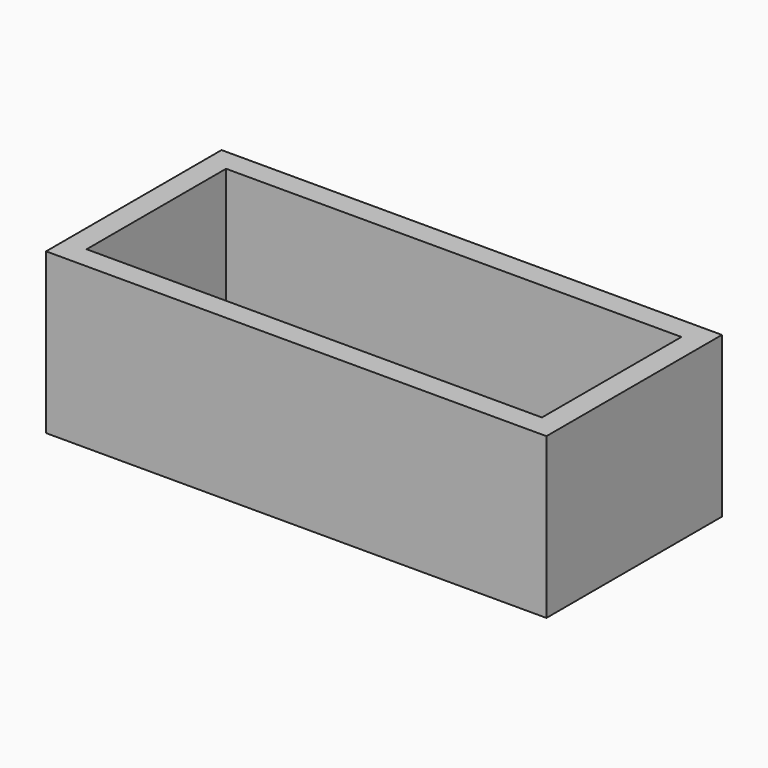
from build123d import *

# Parameters (mm, degrees)
F0_W     = 450
F0_H     = 450
F0_H_2   = 3485.9086036682
F0_W_2   = 9105.3861141205
F1_DEPTH = 3200


with BuildPart() as f1:
    # F0 (on Top) → F1 (new body)
    with BuildSketch(Plane.XY):
        with Locations((-118.284368515, -448.6938476562)):
            Rectangle(F0_W, F0_H)
        with Locations((9437.1017456055, -448.6938476562)):
            Rectangle(F0_W, F0_H)
        with Locations((9437.1017456055, -4384.6024513245)):
            Rectangle(F0_W, F0_H)
        with Locations((-118.284368515, -4384.6024513245)):
            Rectangle(F0_W, F0_H)
        with Locations((9437.1017456055, -2416.6481494904)):
            Rectangle(F0_W, F0_H_2)
        with Locations((4659.4086885452, -4384.6024513245)):
            Rectangle(F0_W_2, F0_H)
        with Locations((-118.284368515, -2416.6481494904)):
            Rectangle(F0_W, F0_H_2)
        with Locations((4659.4086885452, -448.6938476562)):
            Rectangle(F0_W_2, F0_H)
    extrude(amount=F1_DEPTH)


solid = f1.part
